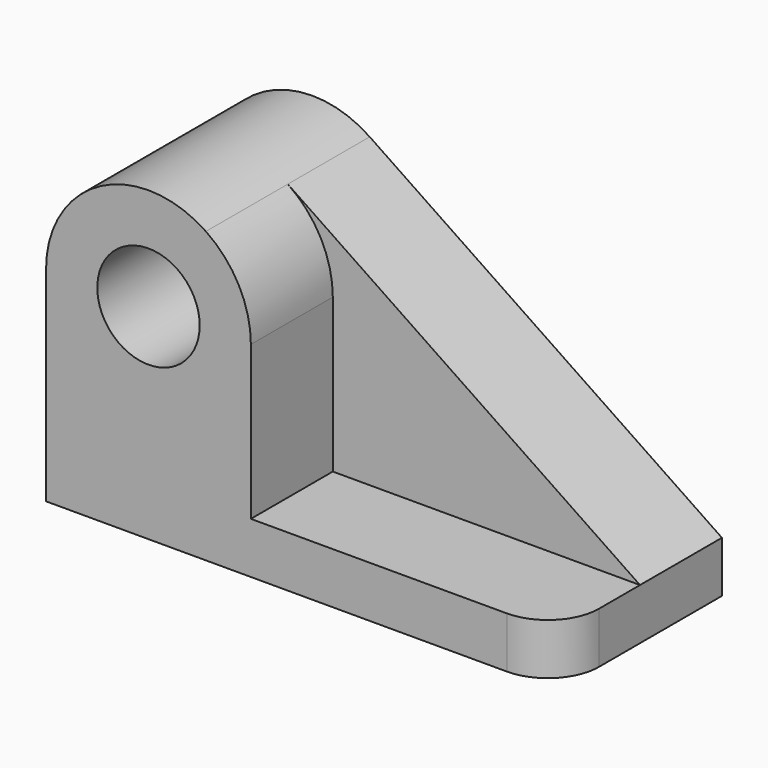
from build123d import *

# Parameters (mm, degrees)
F0_R     = 12.7
F1_DEPTH = 25.4
F2_R     = 12.7
F3_DEPTH = 25.4
F4_R     = 12.7


with BuildPart() as f1:
    # F0 (on Front) → F1 (new body)
    with BuildSketch(Plane.XZ):
        with BuildLine():
            Line((-73.591377, 47.422347), (-160.953504, 106.556675))
            ThreePointArc((-160.953504, 106.556675), (-187.097637, 107.958946), (-200.591377, 85.522347))
            Line((-200.591377, 85.522347), (-200.591377, 34.722347))
            Line((-200.591377, 34.722347), (-73.591377, 34.722347))
            Line((-73.591377, 34.722347), (-73.591377, 47.422347))
        make_face()
        with Locations((-175.191377, 85.522347)):
            Circle(F0_R, mode=Mode.SUBTRACT)
    extrude(amount=F1_DEPTH)

    # F2 (on face) → F3 (join)
    with BuildSketch(Plane.XZ.offset(25.4)):
        with BuildLine():
            Line((-73.591377, 34.722347), (-73.591377, 47.422347))
            Line((-73.591377, 47.422347), (-149.791377, 47.422347))
            Line((-149.791377, 47.422347), (-149.791377, 85.522347))
            ThreePointArc((-149.791377, 85.522347), (-152.754778, 97.428606), (-160.953504, 106.556675))
            ThreePointArc((-160.953504, 106.556675), (-187.097637, 107.958946), (-200.591377, 85.522347))
            Line((-200.591377, 85.522347), (-200.591377, 47.422347))
            Line((-200.591377, 47.422347), (-200.591377, 34.722347))
            Line((-200.591377, 34.722347), (-73.591377, 34.722347))
        make_face()
        with Locations((-175.191377, 85.522347)):
            Circle(F2_R, mode=Mode.SUBTRACT)
    extrude(amount=F3_DEPTH)

    # F4
    f4_edges = [f1.edges().sort_by_distance(p)[0] for p in [
        (-73.591377, -50.8, 41.072347),
    ]]
    fillet(f4_edges, radius=F4_R)


solid = f1.part
